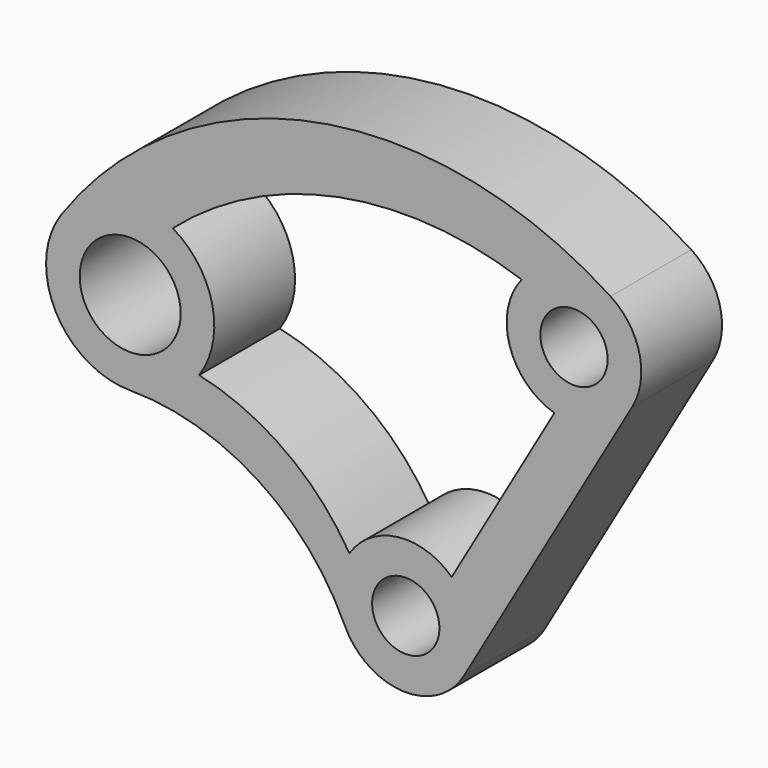
from build123d import *

# Parameters (mm, degrees)
F0_R     = 10
F0_R_2   = 15
F1_DEPTH = 30


with BuildPart() as f1:
    # F0 (on Front) → F1 (new body)
    with BuildSketch(Plane.XZ):
        with BuildLine():
            ThreePointArc((-81.915204, 32.357644), (-44.077123, 21.298231), (-18.151285, -8.398265))
            ThreePointArc((-18.151285, -8.398265), (-0.902184, -19.979641), (17.320508, -10))
            Line((17.320508, -10), (67.320508, 76.60254))
            ThreePointArc((67.320508, 76.60254), (69.442127, 91.293348), (60.854969, 103.400446))
            ThreePointArc((60.854969, 103.400446), (-27.111474, 120.420007), (-102.346878, 71.764126))
            ThreePointArc((-102.346878, 71.764126), (-104.109371, 45.850299), (-81.915204, 32.357644))
        make_face()
        Circle(F0_R, mode=Mode.SUBTRACT)
        with Locations((-81.915204, 57.357644)):
            Circle(F0_R_2, mode=Mode.SUBTRACT)
        with BuildLine():
            ThreePointArc((-69.260057, 78.91796), (-20.13831, 103.050708), (34.45473, 99.186045))
            ThreePointArc((34.45473, 99.186045), (30.879167, 80.737922), (44.183374, 67.467053))
            Line((44.183374, 67.467053), (13.663505, 14.605089))
            ThreePointArc((13.663505, 14.605089), (-2.403826, 19.855015), (-16.754099, 10.922461))
            ThreePointArc((-16.754099, 10.922461), (-35.823115, 31.52567), (-61.436403, 43.018233))
            ThreePointArc((-61.436403, 43.018233), (-57.488534, 62.680966), (-69.260057, 78.91796))
        make_face(mode=Mode.SUBTRACT)
        with Locations((50, 86.60254)):
            Circle(F0_R, mode=Mode.SUBTRACT)
    extrude(amount=F1_DEPTH)


solid = f1.part
